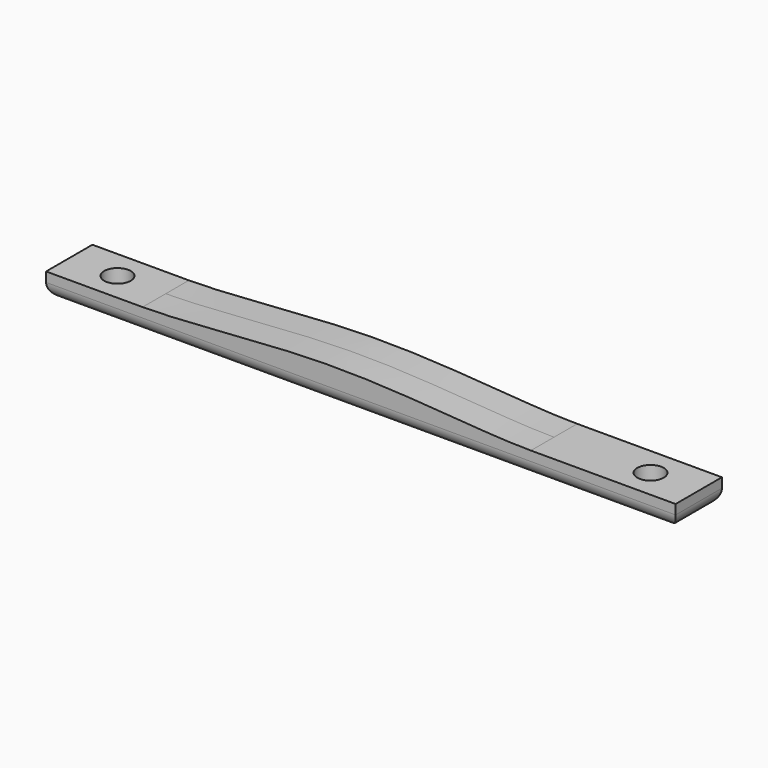
from build123d import *

# Parameters (mm, degrees)
F0_W     = 20
F0_H     = 5
F0_W_2   = 30
F1_DEPTH = 6
F2_R     = 2.75
F3_DEPTH = 5.001
F4_R     = 3


with BuildPart() as f1:
    # F0 (on Front) → F1 (new body, symmetric)
    with BuildSketch(Plane.XZ):
        with Locations((-50.25, 2.5)):
            Rectangle(F0_W, F0_H)
        with BuildLine():
            add(Edge.make_bspline(
                [(-40.25, 5), (-29.795945, 5), (0, 9), (29.795945, 5), (40.25, 5)],
                knots=[0, 0, 0, 0, 40.299659, 80.599318, 80.599318, 80.599318, 80.599318], degree=3))
            Line((-40.25, 5), (-40.25, 0))
            Line((-40.25, 0), (40.25, 0))
            Line((40.25, 0), (40.25, 5))
        make_face()
        with Locations((55.25, 2.5)):
            Rectangle(F0_W_2, F0_H)
    extrude(amount=F1_DEPTH, both=True)

    # F2 (on face) → F3 (cut, through all)
    with BuildSketch(Plane.XY.offset(5)):
        with Locations((-50.25, 0)):
            Circle(F2_R)
        with Locations((60.25, 0)):
            Circle(F2_R)
    extrude(amount=-F3_DEPTH, mode=Mode.SUBTRACT)

    # F4
    f4_edges = [f1.edges().sort_by_distance(p)[0] for p in [
        (-60.25, 0, 0),
        (5, -6, 0),
        (5, 6, 0),
        (70.25, 0, 0),
    ]]
    fillet(f4_edges, radius=F4_R)


solid = f1.part
